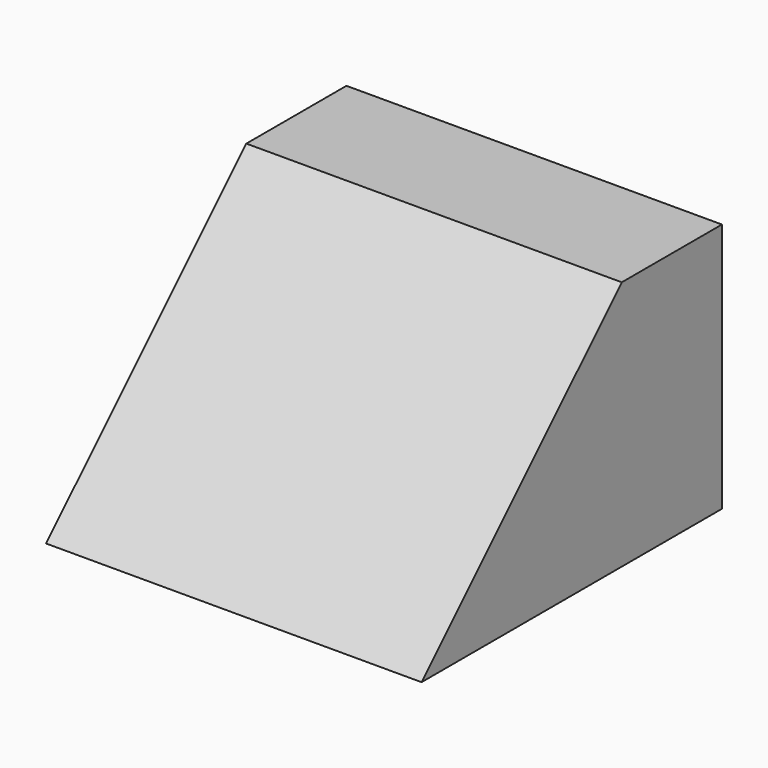
from build123d import *

# Parameters (mm, degrees)
F1_DEPTH  = 60
F1_FACE_W = 60
F1_FACE_H = 56.5685424949


with BuildPart() as f1:
    # F0 (on Right) → F1 (new body)
    with BuildSketch(Plane.YZ):
        Polygon((-60, 0), (0, 0), (0, 40), (-20, 40), align=None)
    extrude(amount=F1_DEPTH)

    # F1_face (on face) → F2 section 0
    with BuildSketch(Plane(origin=(30, -40, 20), x_dir=(1, 0, 0), z_dir=(0, -0.7071067812, 0.7071067812)), mode=Mode.PRIVATE) as f2_s0:
        Rectangle(F1_FACE_W, F1_FACE_H)
    loft([Vertex(0, 0, 0), f2_s0.sketch])


solid = f1.part
